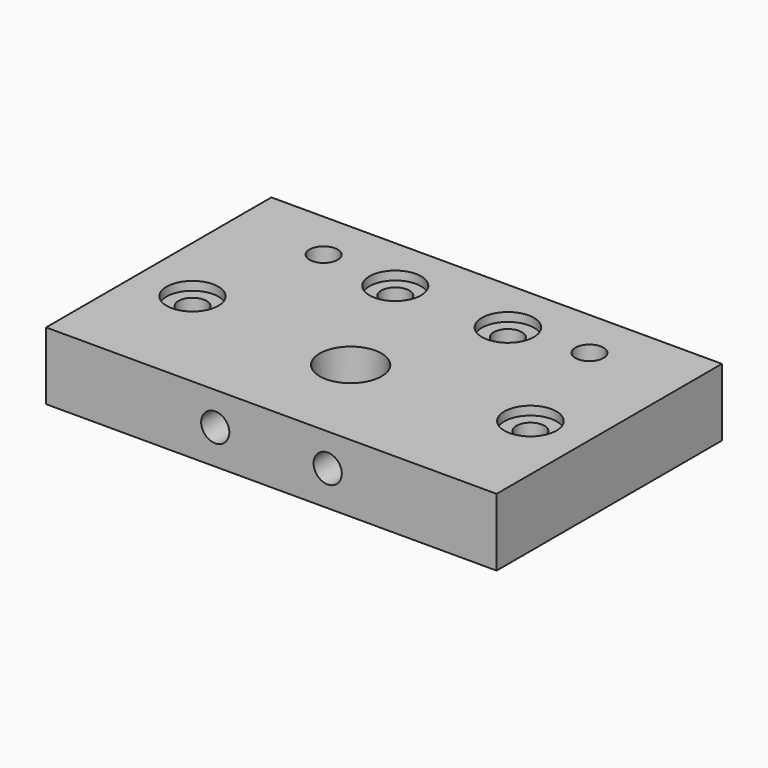
from build123d import *

# Parameters (mm, degrees)
SKETCH005_W     = 80
SKETCH005_H     = 50
SKETCH005_R     = 2.5
SKETCH005_R_2   = 5.5
PAD001_DEPTH    = 12
SKETCH006_R     = 2.5
POCKET003_DEPTH = 11
SKETCH007_R     = 8.05
POCKET004_DEPTH = 4.5
SKETCH008_R     = 4.6
SKETCH008_R_2   = 4.624594
SKETCH008_R_3   = 4.583454
SKETCH008_R_4   = 4.624604
POCKET005_DEPTH = 1.55


with BuildPart() as part:
    # Sketch005 → Pad001 (new body)
    with BuildSketch(Plane(origin=(180, 460, 362), x_dir=(1, 0, 0), z_dir=(0, 0, -1))):
        with Locations((40, 25)):
            Rectangle(SKETCH005_W, SKETCH005_H)
        with Locations((10, 30)):
            Circle(SKETCH005_R, mode=Mode.SUBTRACT)
        with Locations((30, 10)):
            Circle(SKETCH005_R, mode=Mode.SUBTRACT)
        with Locations((16.4, 8.9)):
            Circle(SKETCH005_R, mode=Mode.SUBTRACT)
        with Locations((50, 10)):
            Circle(SKETCH005_R, mode=Mode.SUBTRACT)
        with Locations((63.6, 8.9)):
            Circle(SKETCH005_R, mode=Mode.SUBTRACT)
        with Locations((70, 30)):
            Circle(SKETCH005_R, mode=Mode.SUBTRACT)
        with Locations((40, 32.4)):
            Circle(SKETCH005_R_2, mode=Mode.SUBTRACT)
    extrude(amount=PAD001_DEPTH)

    # Sketch006 → Pocket003 (cut)
    with BuildSketch(Plane(origin=(180, 410, 362), x_dir=(-1, 0, 0), z_dir=(0, -1, 0))):
        with Locations((-30.033846, 5.850095)):
            Circle(SKETCH006_R)
        with Locations((-50.003807, 5.788844)):
            Circle(SKETCH006_R)
    extrude(amount=-POCKET003_DEPTH, mode=Mode.SUBTRACT)

    # Sketch007 → Pocket004 (cut)
    with BuildSketch(Plane(origin=(180, 460, 350), x_dir=(1, 0, 0), z_dir=(0, 0, -1))):
        with Locations((40, 32.4)):
            Circle(SKETCH007_R)
    extrude(amount=-POCKET004_DEPTH, mode=Mode.SUBTRACT)

    # Sketch008 → Pocket005 (cut)
    with BuildSketch(Plane(origin=(180, 460, 362), x_dir=(1, 0, 0), z_dir=(0, 0, 1))):
        with Locations((10, -30)):
            Circle(SKETCH008_R)
        with Locations((70, -30)):
            Circle(SKETCH008_R_2)
        with Locations((30, -10)):
            Circle(SKETCH008_R_3)
        with Locations((50, -10)):
            Circle(SKETCH008_R_4)
    extrude(amount=-POCKET005_DEPTH, mode=Mode.SUBTRACT)


solid = part.part
